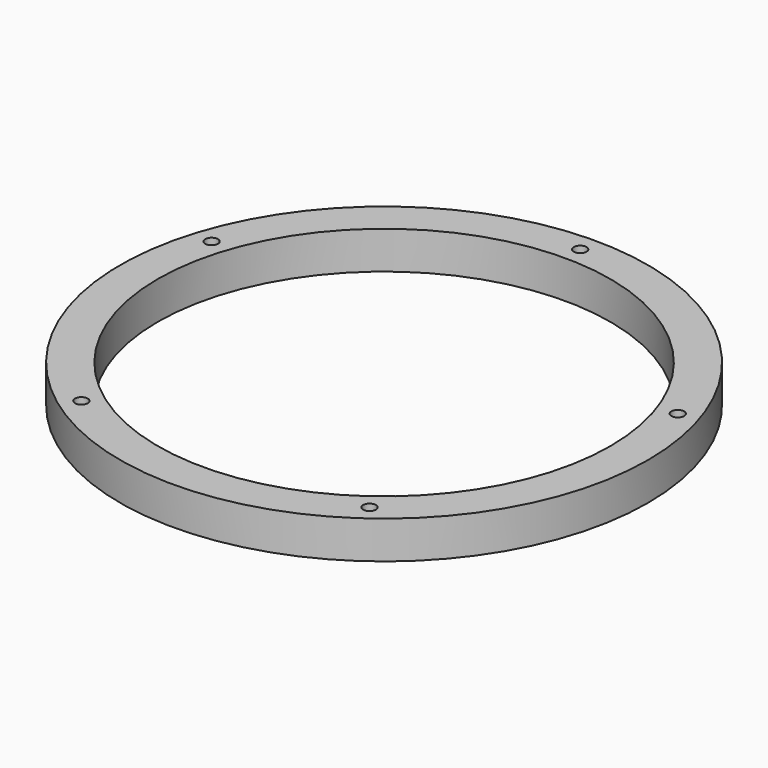
from build123d import *

# Parameters (mm, degrees)
F0_R     = 88.9
F0_R_2   = 2.15265
F0_R_3   = 76.2127
F1_DEPTH = 12.7
F2_DEPTH = 6.35


with BuildPart() as f1:
    # F0 (on Top) → F1 (new body)
    with BuildSketch(Plane.XY):
        Circle(F0_R)
        with Locations((-48.521673, -66.784353)):
            Circle(F0_R_2, mode=Mode.SUBTRACT)
        with Locations((48.521673, -66.784353)):
            Circle(F0_R_2, mode=Mode.SUBTRACT)
        with Locations((-78.509715, 25.509353)):
            Circle(F0_R_2, mode=Mode.SUBTRACT)
        Circle(F0_R_3, mode=Mode.SUBTRACT)
        with Locations((78.509715, 25.509353)):
            Circle(F0_R_2, mode=Mode.SUBTRACT)
        with Locations((0, 82.55)):
            Circle(F0_R_2, mode=Mode.SUBTRACT)
    extrude(amount=F1_DEPTH)

    # F0 (on Top) → F2 (join)
    with BuildSketch(Plane.XY):
        Circle(F0_R)
        with Locations((-48.521673, -66.784353)):
            Circle(F0_R_2, mode=Mode.SUBTRACT)
        with Locations((48.521673, -66.784353)):
            Circle(F0_R_2, mode=Mode.SUBTRACT)
        with Locations((-78.509715, 25.509353)):
            Circle(F0_R_2, mode=Mode.SUBTRACT)
        Circle(F0_R_3, mode=Mode.SUBTRACT)
        with Locations((78.509715, 25.509353)):
            Circle(F0_R_2, mode=Mode.SUBTRACT)
        with Locations((0, 82.55)):
            Circle(F0_R_2, mode=Mode.SUBTRACT)
        Circle(F0_R)
        with Locations((-48.521673, -66.784353)):
            Circle(F0_R_2, mode=Mode.SUBTRACT)
        with Locations((48.521673, -66.784353)):
            Circle(F0_R_2, mode=Mode.SUBTRACT)
        with Locations((-78.509715, 25.509353)):
            Circle(F0_R_2, mode=Mode.SUBTRACT)
        Circle(F0_R_3, mode=Mode.SUBTRACT)
        with Locations((78.509715, 25.509353)):
            Circle(F0_R_2, mode=Mode.SUBTRACT)
        with Locations((0, 82.55)):
            Circle(F0_R_2, mode=Mode.SUBTRACT)
        Circle(F0_R)
        with Locations((-48.521673, -66.784353)):
            Circle(F0_R_2, mode=Mode.SUBTRACT)
        with Locations((48.521673, -66.784353)):
            Circle(F0_R_2, mode=Mode.SUBTRACT)
        with Locations((-78.509715, 25.509353)):
            Circle(F0_R_2, mode=Mode.SUBTRACT)
        Circle(F0_R_3, mode=Mode.SUBTRACT)
        with Locations((78.509715, 25.509353)):
            Circle(F0_R_2, mode=Mode.SUBTRACT)
        with Locations((0, 82.55)):
            Circle(F0_R_2, mode=Mode.SUBTRACT)
        Circle(F0_R)
        with Locations((-48.521673, -66.784353)):
            Circle(F0_R_2, mode=Mode.SUBTRACT)
        with Locations((48.521673, -66.784353)):
            Circle(F0_R_2, mode=Mode.SUBTRACT)
        with Locations((-78.509715, 25.509353)):
            Circle(F0_R_2, mode=Mode.SUBTRACT)
        Circle(F0_R_3, mode=Mode.SUBTRACT)
        with Locations((78.509715, 25.509353)):
            Circle(F0_R_2, mode=Mode.SUBTRACT)
        with Locations((0, 82.55)):
            Circle(F0_R_2, mode=Mode.SUBTRACT)
        Circle(F0_R)
        with Locations((-48.521673, -66.784353)):
            Circle(F0_R_2, mode=Mode.SUBTRACT)
        with Locations((48.521673, -66.784353)):
            Circle(F0_R_2, mode=Mode.SUBTRACT)
        with Locations((-78.509715, 25.509353)):
            Circle(F0_R_2, mode=Mode.SUBTRACT)
        Circle(F0_R_3, mode=Mode.SUBTRACT)
        with Locations((78.509715, 25.509353)):
            Circle(F0_R_2, mode=Mode.SUBTRACT)
        with Locations((0, 82.55)):
            Circle(F0_R_2, mode=Mode.SUBTRACT)
    extrude(amount=F2_DEPTH)


solid = f1.part
